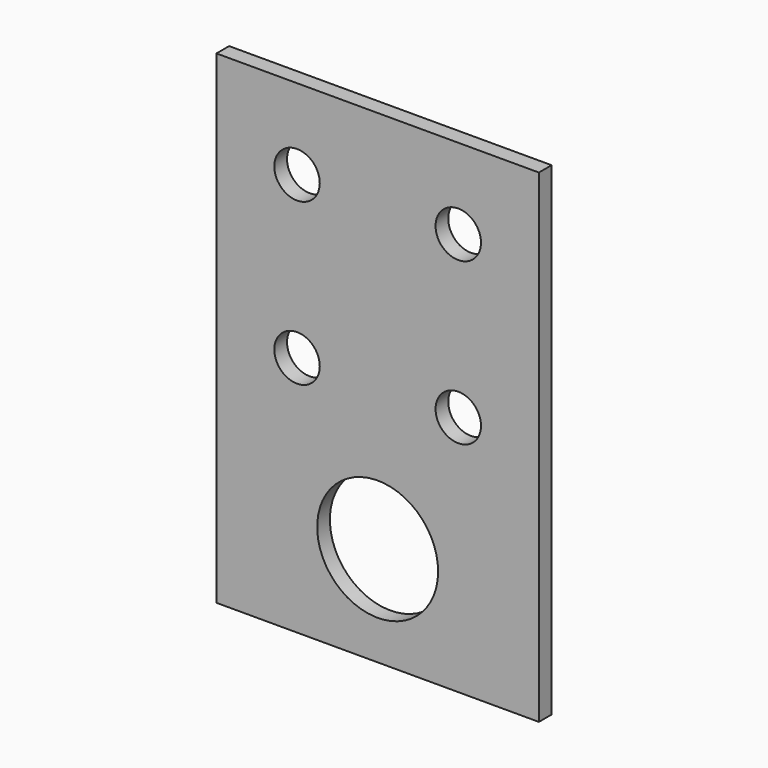
from build123d import *

# Parameters (mm, degrees)
SKETCH_W   = 203.2
SKETCH_H   = 304.8
SKETCH_R   = 14.318315
SKETCH_R_2 = 38.1
PAD_DEPTH  = 10.000005


with BuildPart() as part:
    # Sketch → Pad (new body)
    with BuildSketch(Plane.XZ):
        Rectangle(SKETCH_W, SKETCH_H)
        with Locations((50.8, 101.6)):
            Circle(SKETCH_R, mode=Mode.SUBTRACT)
        with Locations((-50.8, 0)):
            Circle(SKETCH_R, mode=Mode.SUBTRACT)
        with Locations((50.8, 0)):
            Circle(SKETCH_R, mode=Mode.SUBTRACT)
        with Locations((0, -89.594436)):
            Circle(SKETCH_R_2, mode=Mode.SUBTRACT)
        with Locations((-50.8, 101.6)):
            Circle(SKETCH_R, mode=Mode.SUBTRACT)
    extrude(amount=PAD_DEPTH)


solid = part.part
